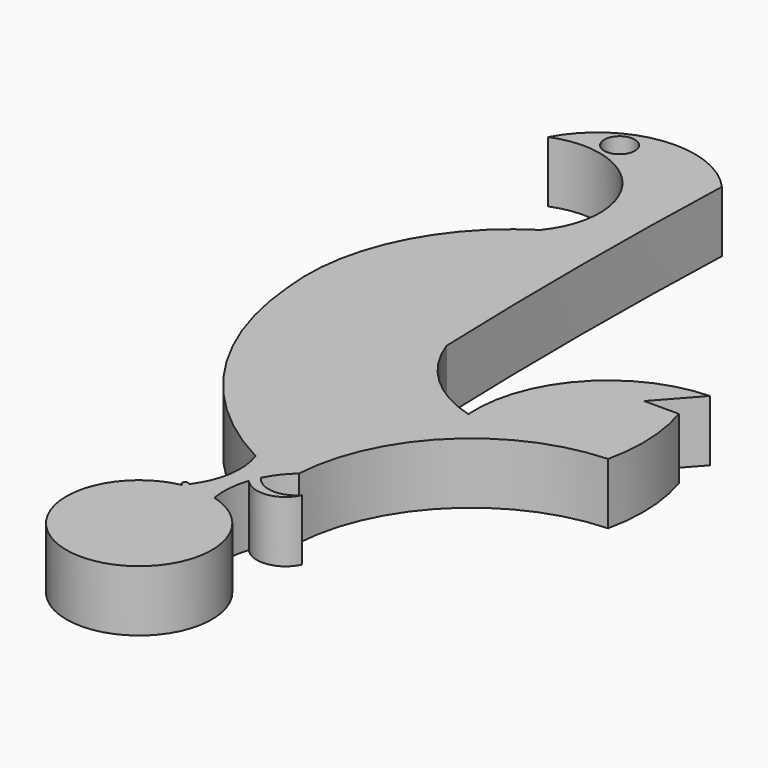
from build123d import *

# Parameters (mm, degrees)
F1_DEPTH = 25.4
F2_R     = 6.35
F3_DEPTH = 25.4


with BuildPart() as f1:
    # F0 (on Top) → F1 (new body)
    with BuildSketch(Plane.XY):
        with BuildLine():
            ThreePointArc((0, 41.895594), (1.411812, 26.823584), (-4.554442, 12.910909))
            ThreePointArc((-4.554442, 12.910909), (-6.713427, 12.936253), (-5.556302, 11.113365))
            ThreePointArc((-5.556302, 11.113365), (-1.181459, -48.860509), (7.860318, 10.589059))
            ThreePointArc((7.860318, 10.589059), (7.511956, 18.825198), (9.196999, 26.894646))
            ThreePointArc((9.196999, 26.894646), (19.923926, 22.936155), (29.05711, 29.815221))
            ThreePointArc((29.05711, 29.815221), (19.702639, 26.039883), (10.905095, 30.975724))
            ThreePointArc((10.905095, 30.975724), (14.302669, 36.405251), (18.676664, 41.084081))
            ThreePointArc((18.676664, 41.084081), (41.158988, 90.20138), (90.687057, 111.763717))
            ThreePointArc((90.687057, 111.763717), (92.375997, 131.436056), (88.797778, 150.853826))
            Line((88.797778, 150.853826), (74.408598, 150.853826))
            Line((74.408598, 150.853826), (88.797778, 166.989416))
            ThreePointArc((88.797778, 166.989416), (49.663896, 148.784623), (35.557803, 107.993774))
            ThreePointArc((35.557803, 107.993774), (13.732164, 120.193466), (0, 141.088888))
            ThreePointArc((0, 141.088888), (-1.261288, 212.675072), (0, 284.261256))
            ThreePointArc((0, 284.261256), (-35.007144, 297.488885), (-65.885924, 276.34719))
            ThreePointArc((-65.885924, 276.34719), (-26.080862, 265.162303), (-27.035138, 223.826677))
            ThreePointArc((-27.035138, 223.826677), (-58.487055, 188.10502), (-65.885924, 141.088888))
            ThreePointArc((-65.885924, 141.088888), (-45.782581, 82.963941), (0, 41.895594))
        make_face()
    extrude(amount=F1_DEPTH)

    # F2 (on face) → F3 (cut)
    with BuildSketch(Plane.XY.offset(25.4)):
        with Locations((-44.20279, 286.341995)):
            Circle(F2_R)
    extrude(amount=-F3_DEPTH, mode=Mode.SUBTRACT)


solid = f1.part
